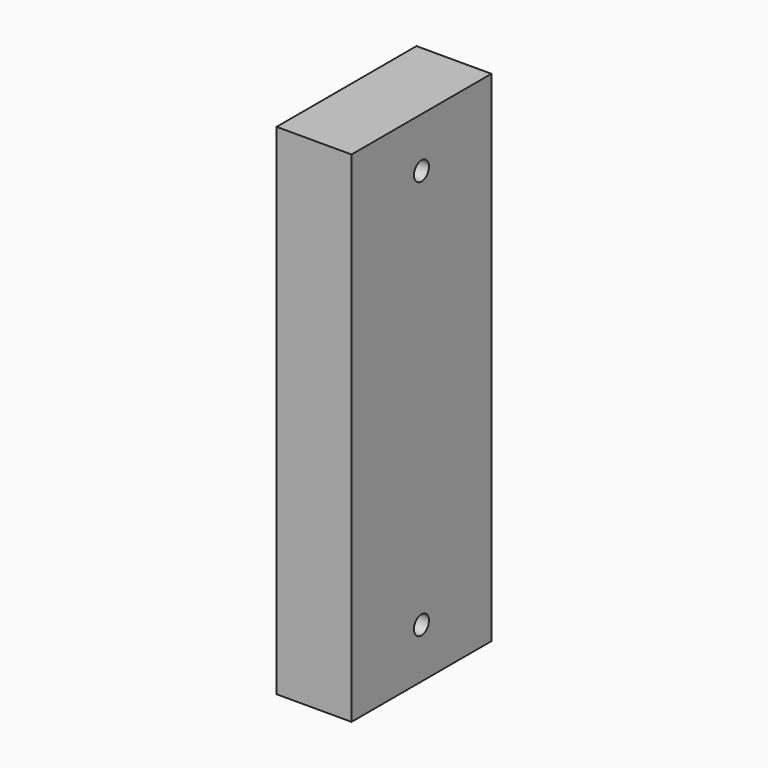
from build123d import *

# Parameters (mm, degrees)
F0_W     = 88.9
F0_H     = 254
F0_R     = 4.7625
F1_DEPTH = 38.1


with BuildPart() as f1:
    # F0 (on Right) → F1 (new body)
    with BuildSketch(Plane.YZ):
        Rectangle(F0_W, F0_H)
        with Locations((0, -101.6)):
            Circle(F0_R, mode=Mode.SUBTRACT)
        with Locations((0, 101.6)):
            Circle(F0_R, mode=Mode.SUBTRACT)
    extrude(amount=F1_DEPTH)


solid = f1.part
